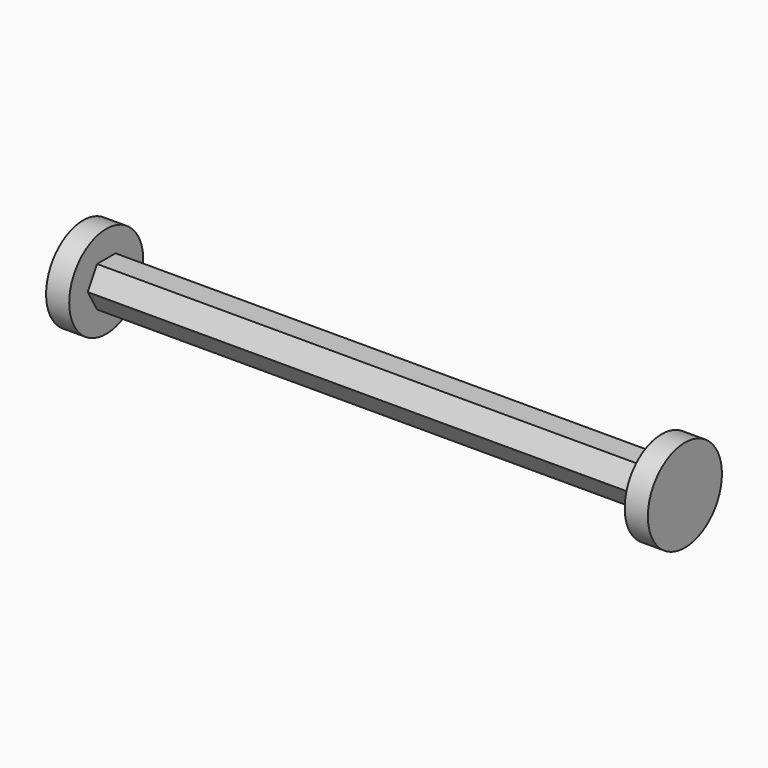
from build123d import *

# Parameters (mm, degrees)
F1_DEPTH = 304.8
F2_R     = 25.4
F3_DEPTH = 12.7
F4_R     = 25.4
F5_DEPTH = 12.7


with BuildPart() as f1:
    # F0 (on Right) → F1 (new body)
    with BuildSketch(Plane.YZ):
        Polygon((6.35, -10.9985226281), (12.7, 0), (6.35, 10.9985226281), (-6.35, 10.9985226281), (-12.7, 0), (-6.35, -10.9985226281), align=None)
    extrude(amount=F1_DEPTH)

    # F2 (on face) → F3 (join)
    with BuildSketch(Plane.YZ.offset(304.8)):
        Circle(F2_R)
        Polygon((6.35, -10.9985226281), (-6.35, -10.9985226281), (-12.7, 0), (-6.35, 10.9985226281), (6.35, 10.9985226281), (12.7, 0), align=None, mode=Mode.SUBTRACT)
        Polygon((-12.7, 0), (-6.35, -10.9985226281), (6.35, -10.9985226281), (12.7, 0), (6.35, 10.9985226281), (-6.35, 10.9985226281), align=None)
    extrude(amount=F3_DEPTH)

    # F4 (on face) → F5 (join)
    with BuildSketch(Plane(origin=(0, 0, 0), x_dir=(0, -1, 0), z_dir=(-1, 0, 0))):
        Circle(F4_R)
        Polygon((6.35, -10.9985226281), (-6.35, -10.9985226281), (-12.7, 0), (-6.35, 10.9985226281), (6.35, 10.9985226281), (12.7, 0), align=None, mode=Mode.SUBTRACT)
        Polygon((-12.7, 0), (-6.35, -10.9985226281), (6.35, -10.9985226281), (12.7, 0), (6.35, 10.9985226281), (-6.35, 10.9985226281), align=None)
    extrude(amount=F5_DEPTH)


solid = f1.part
